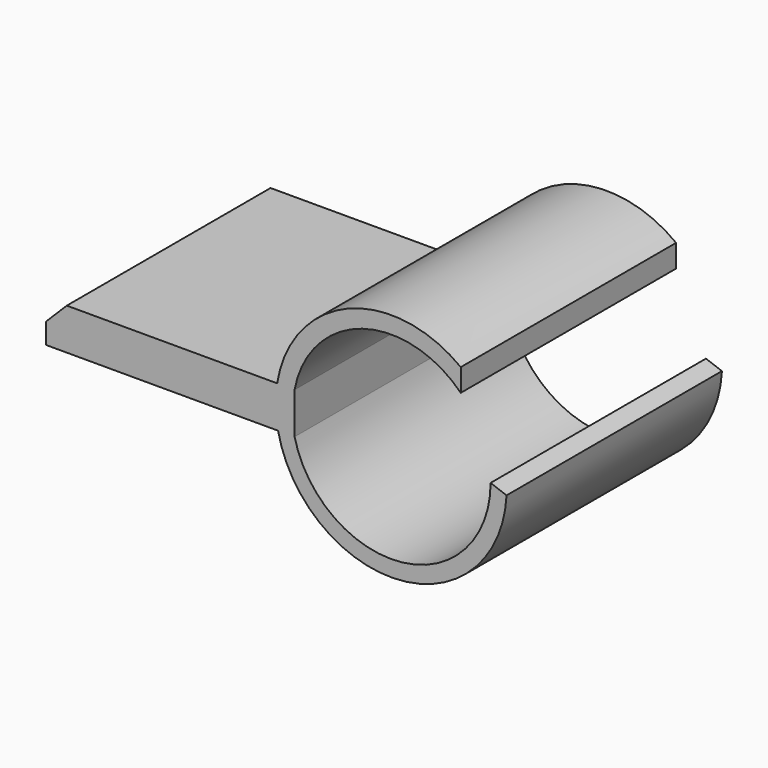
from build123d import *

# Parameters (mm, degrees)
SKETCH_W     = 12
SKETCH_H     = 12.3
PAD_DEPTH    = 2
SKETCH001_W  = 1.8
SKETCH001_H  = 2.7
POCKET_DEPTH = 0.2
PAD001_DEPTH = 13
CHAMFER_SIZE = 1


with BuildPart() as part:
    # Sketch → Pad (new body)
    with BuildSketch(Plane.XY):
        with Locations((6, 6.15)):
            Rectangle(SKETCH_W, SKETCH_H)
    extrude(amount=PAD_DEPTH)

    # Sketch001 (on Face5 of Pad) → Pocket (cut)
    with BuildSketch(Plane(origin=(0, 0, 0), x_dir=(1, 0, 0), z_dir=(0, 0, -1))):
        with Locations((6.2, -3.25)):
            Rectangle(SKETCH001_W, SKETCH001_H)
        with Locations((6.2, -9.05)):
            Rectangle(SKETCH001_W, SKETCH001_H)
    extrude(amount=-POCKET_DEPTH, mode=Mode.SUBTRACT)

    # Sketch002 (on Face1 of Pocket) → Pad001 (join)
    with BuildSketch(Plane.XZ):
        with BuildLine():
            ThreePointArc((11.16, 0.23875), (16.969381, -4.45007), (22.238211, 0.838915))
            Line((21.467655, 1.119375), (22.238211, 0.838915))
            ThreePointArc((12, 0), (17.23124, -3.647424), (21.467655, 1.119375))
            Line((12, 2), (12, 0))
            ThreePointArc((20.026412, 4.478132), (15.266374, 5.657977), (12, 2))
            Line((20.026412, 4.478132), (20.026412, 5.572296))
            ThreePointArc((20.026412, 5.572296), (14.583244, 6.292865), (11.16, 2))
            Line((11.16, 2), (11.16, 0.23875))
        make_face()
    extrude(amount=-PAD001_DEPTH)

    # Chamfer
    chamfer_edges = [part.edges().sort_by_distance(p)[0] for p in [
        (0, 6.15, 2),
    ]]
    chamfer(chamfer_edges, length=CHAMFER_SIZE)


solid = part.part
